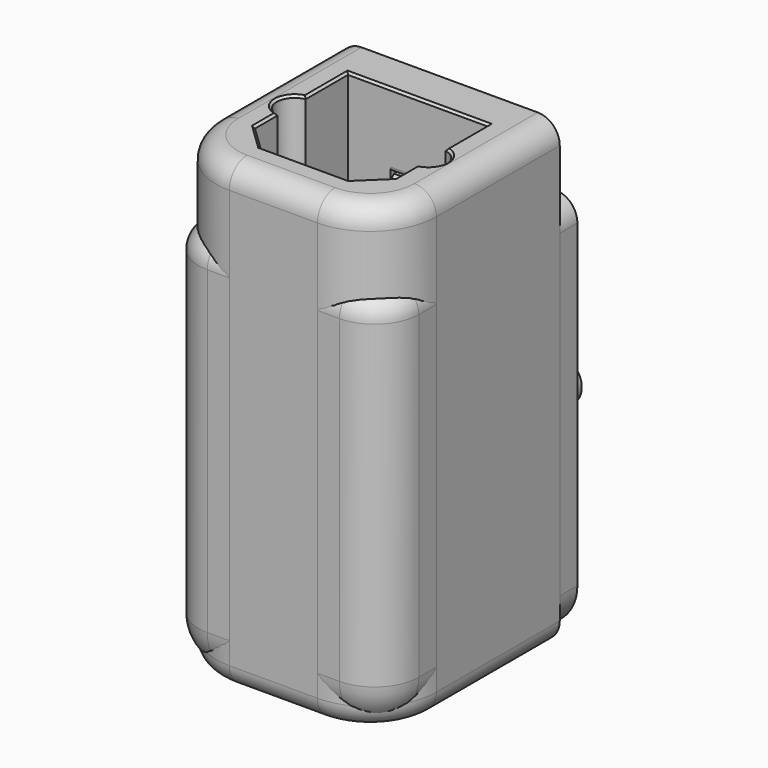
from build123d import *

# Parameters (mm, degrees)
SKETCH001_W     = 10
SKETCH001_H     = 11
PAD_DEPTH       = 17.5
POCKET_DEPTH    = 7.7
SKETCH003_R     = 1.5
POCKET001_DEPTH = 4
POCKET002_DEPTH = 7.5
SKETCH005_R     = 1
PAD001_DEPTH    = 1.5
FILLET_R        = 2
SKETCH016_W     = 2.5
SKETCH016_H     = 1
POCKET008_DEPTH = 0.5
SKETCH017_W     = 2.5
SKETCH017_H     = 1
POCKET009_DEPTH = 0.5
FILLET004_R     = 0.3
CHAMFER003_SIZE = 0.2
FILLET005_R     = 1
FILLET006_R     = 0.25
SKETCH006_W     = 10
SKETCH006_H     = 10
PAD002_DEPTH    = 21
POCKET003_DEPTH = 7.7
SKETCH008_R     = 1.5
POCKET004_DEPTH = 5
SKETCH010_R     = 1
PAD003_DEPTH    = 1.5
SKETCH_R        = 2.6
POCKET005_DEPTH = 9
FILLET001_R     = 3
CHAMFER_SIZE2   = 2
CHAMFER_SIZE    = 1
SKETCH013_W     = 2.5
SKETCH013_H     = 1
POCKET006_DEPTH = 0.5
SKETCH015_W     = 2.5
SKETCH015_H     = 1
POCKET007_DEPTH = 0.5
FILLET002_R     = 0.2
CHAMFER002_SIZE = 0.1
FILLET003_R     = 1


with BuildPart() as receiver:
    # Sketch001 → Pad (new body)
    with BuildSketch(Plane.XY):
        with Locations((0, 0.5)):
            Rectangle(SKETCH001_W, SKETCH001_H)
    extrude(amount=PAD_DEPTH)

    # Sketch002 (on Face6 of Pad) → Pocket (cut)
    with BuildSketch(Plane.XY.offset(17.5)):
        with BuildLine():
            Line((3.175, 3.198671), (-3.175, 3.198671))
            Line((-3.175, 3.198671), (-3.175, 0.798671))
            ThreePointArc((-3.175, 0.798671), (-3.85, 0), (-3.175, -0.798671))
            Line((-3.175, -2.078671), (-3.175, -0.798671))
            Line((-2, -3.211329), (-3.175, -2.078671))
            Line((2, -3.211329), (-2, -3.211329))
            Line((3.175, -2.078671), (2, -3.211329))
            Line((3.175, -0.798671), (3.175, -2.078671))
            ThreePointArc((3.175, -0.798671), (3.85, 0), (3.175, 0.798671))
            Line((3.175, 3.198671), (3.175, 0.798671))
        make_face()
    extrude(amount=-POCKET_DEPTH, mode=Mode.SUBTRACT)

    # Sketch003 (on Face17 of Pocket) → Pocket001 (cut)
    with BuildSketch(Plane.XY.offset(9.8)):
        Circle(SKETCH003_R)
    extrude(amount=-POCKET001_DEPTH, mode=Mode.SUBTRACT)

    # Sketch004 (on Face2 of Pocket001) → Pocket002 (cut)
    with BuildSketch(Plane(origin=(0, 6, 0), x_dir=(-1, 0, 0), z_dir=(0, 1, 0))):
        Polygon((-2.5, 3.2), (2.5, 3.2), (2.5, 5), (1.5, 5), (1.5, 5.8), (-1.5, 5.8), (-1.5, 5), (-2.5, 5), align=None)
    extrude(amount=-POCKET002_DEPTH, mode=Mode.SUBTRACT)

    # Sketch005 (on Face2 of Pocket002) → Pad001 (join)
    with BuildSketch(Plane(origin=(0, 6, 0), x_dir=(-1, 0, 0), z_dir=(0, 1, 0))):
        with Locations((-3, 9)):
            Circle(SKETCH005_R)
        with Locations((3, 9)):
            Circle(SKETCH005_R)
    extrude(amount=PAD001_DEPTH)

    # Fillet
    fillet_edges = [receiver.edges().sort_by_distance(p)[0] for p in [
        (-5, -5, 8.75),
        (5, -5, 8.75),
        (0, -5, 0),
        (-5, 0.5, 0),
        (5, 0.5, 0),
    ]]
    fillet(fillet_edges, radius=FILLET_R)

    # Sketch016 → Pocket008 (cut)
    with BuildSketch(Plane.XZ.offset(-3.198671)):
        with Locations((0, 13.65)):
            Rectangle(SKETCH016_W, SKETCH016_H)
    extrude(amount=-POCKET008_DEPTH, mode=Mode.SUBTRACT)

    # Sketch017 (on Face29 of Pocket008) → Pocket009 (cut)
    with BuildSketch(Plane(origin=(0, -3.211329, 0), x_dir=(-1, 0, 0), z_dir=(0, 1, 0))):
        with Locations((0, 13.650002)):
            Rectangle(SKETCH017_W, SKETCH017_H)
    extrude(amount=-POCKET009_DEPTH, mode=Mode.SUBTRACT)

    # Fillet004
    fillet004_edges = [receiver.edges().sort_by_distance(p)[0] for p in [
        (0, -3.211329, 14.15),
        (0, -3.211329, 13.15),
        (0, 3.198671, 13.15),
        (0, 3.198671, 14.15),
    ]]
    fillet(fillet004_edges, radius=FILLET004_R)

    # Chamfer003
    chamfer003_edges = [receiver.edges().sort_by_distance(p)[0] for p in [
        (2.5875, -2.645, 17.5),
        (0, -3.211329, 17.5),
        (-2.5875, -2.645, 17.5),
        (-3.175, -1.438671, 17.5),
        (-3.85, 0, 17.5),
        (-3.175, 1.998671, 17.5),
        (0, 3.198671, 17.5),
        (3.175, 1.998671, 17.5),
        (3.85, 0, 17.5),
        (3.175, -1.438671, 17.5),
    ]]
    chamfer(chamfer003_edges, length=CHAMFER003_SIZE)

    # Fillet005
    fillet005_edges = [receiver.edges().sort_by_distance(p)[0] for p in [
        (-5, 1.5, 17.5),
        (-4.414214, -4.414214, 17.5),
        (0, -5, 17.5),
        (4.414214, -4.414214, 17.5),
        (5, 1.5, 17.5),
    ]]
    fillet(fillet005_edges, radius=FILLET005_R)

    # Fillet006
    fillet006_edges = [receiver.edges().sort_by_distance(p)[0] for p in [
        (1.5, 2.25, 5),
        (2.5, 2.25, 5),
        (2.5, 2.25, 3.2),
        (-2.5, 2.25, 3.2),
        (-2.5, 2.25, 5),
        (-1.5, 2.25, 5),
    ]]
    fillet(fillet006_edges, radius=FILLET006_R)


with BuildPart() as transmitter:
    # Sketch006 → Pad002 (new body)
    with BuildSketch(Plane.XY):
        Rectangle(SKETCH006_W, SKETCH006_H)
    extrude(amount=PAD002_DEPTH)

    # Sketch007 (on Face6 of Pad002) → Pocket003 (cut)
    with BuildSketch(Plane.XY.offset(21)):
        with BuildLine():
            Line((3.175, 3.198671), (-3.175, 3.198671))
            Line((-3.175, 3.198671), (-3.175, 0.798671))
            ThreePointArc((-3.175, 0.798671), (-3.85, 0), (-3.175, -0.798671))
            Line((-3.175, -2.078671), (-3.175, -0.798671))
            Line((-2, -3.211329), (-3.175, -2.078671))
            Line((2, -3.211329), (-2, -3.211329))
            Line((3.175, -2.078671), (2, -3.211329))
            Line((3.175, -0.798671), (3.175, -2.078671))
            ThreePointArc((3.175, -0.798671), (3.85, 0), (3.175, 0.798671))
            Line((3.175, 3.198671), (3.175, 0.798671))
        make_face()
    extrude(amount=-POCKET003_DEPTH, mode=Mode.SUBTRACT)

    # Sketch008 (on Face17 of Pocket003) → Pocket004 (cut)
    with BuildSketch(Plane.XY.offset(13.3)):
        Circle(SKETCH008_R)
    extrude(amount=-POCKET004_DEPTH, mode=Mode.SUBTRACT)

    # Sketch010 → Pad003 (join)
    with BuildSketch(Plane(origin=(0, 5, 0), x_dir=(-1, 0, 0), z_dir=(0, 1, 0))):
        with Locations((-3, 12)):
            Circle(SKETCH010_R)
        with Locations((3, 12)):
            Circle(SKETCH010_R)
        with Locations((0, 4)):
            Circle(SKETCH010_R)
    extrude(amount=PAD003_DEPTH)

    # Sketch (on Face4 of Pad003) → Pocket005 (cut)
    with BuildSketch(Plane(origin=(0, 0, 0), x_dir=(1, 0, 0), z_dir=(0, 0, -1))):
        Circle(SKETCH_R)
    extrude(amount=-POCKET005_DEPTH, mode=Mode.SUBTRACT)

    # Fillet001
    fillet001_edges = [transmitter.edges().sort_by_distance(p)[0] for p in [
        (-5, -5, 10.5),
        (5, -5, 10.5),
    ]]
    fillet(fillet001_edges, radius=FILLET001_R)

    # Chamfer
    chamfer_edges = [transmitter.edges().sort_by_distance(p)[0] for p in [
        (-2.6, 0, 0),
    ]]
    chamfer_side = transmitter.faces().sort_by_distance((-4.858579, 1.5, 0))[0]
    chamfer(chamfer_edges, length=CHAMFER_SIZE, length2=CHAMFER_SIZE2, reference=chamfer_side)

    # Sketch013 (on Face17 of Chamfer) → Pocket006 (cut)
    with BuildSketch(Plane.XZ.offset(-3.198671)):
        with Locations((0, 17.15)):
            Rectangle(SKETCH013_W, SKETCH013_H)
    extrude(amount=-POCKET006_DEPTH, mode=Mode.SUBTRACT)

    # Sketch015 (on Face22 of Pocket006) → Pocket007 (cut)
    with BuildSketch(Plane(origin=(0, -3.211329, 0), x_dir=(-1, 0, 0), z_dir=(0, 1, 0))):
        with Locations((0, 17.15)):
            Rectangle(SKETCH015_W, SKETCH015_H)
    extrude(amount=-POCKET007_DEPTH, mode=Mode.SUBTRACT)

    # Fillet002
    fillet002_edges = [transmitter.edges().sort_by_distance(p)[0] for p in [
        (0, 3.198671, 16.65),
        (0, 3.198671, 17.65),
        (0, -3.211329, 16.65),
        (0, -3.211329, 17.65),
    ]]
    fillet(fillet002_edges, radius=FILLET002_R)

    # Chamfer002
    chamfer002_edges = [transmitter.edges().sort_by_distance(p)[0] for p in [
        (2.5875, -2.645, 21),
        (0, -3.211329, 21),
        (-2.5875, -2.645, 21),
        (-3.175, -1.438671, 21),
        (-3.85, 0, 21),
        (-3.175, 1.998671, 21),
        (0, 3.198671, 21),
        (3.175, 1.998671, 21),
        (3.85, 0, 21),
        (3.175, -1.438671, 21),
    ]]
    chamfer(chamfer002_edges, length=CHAMFER002_SIZE)

    # Fillet003
    fillet003_edges = [transmitter.edges().sort_by_distance(p)[0] for p in [
        (4.12132, -4.12132, 21),
        (-4.12132, -4.12132, 21),
        (0, -5, 21),
        (-5, 1.5, 21),
        (5, 1.5, 21),
        (-5, 1.5, 0),
        (-4.12132, -4.12132, 0),
        (0, -5, 0),
        (4.12132, -4.12132, 0),
        (5, 1.5, 0),
    ]]
    fillet(fillet003_edges, radius=FILLET003_R)


solid = Compound([receiver.part, transmitter.part])
